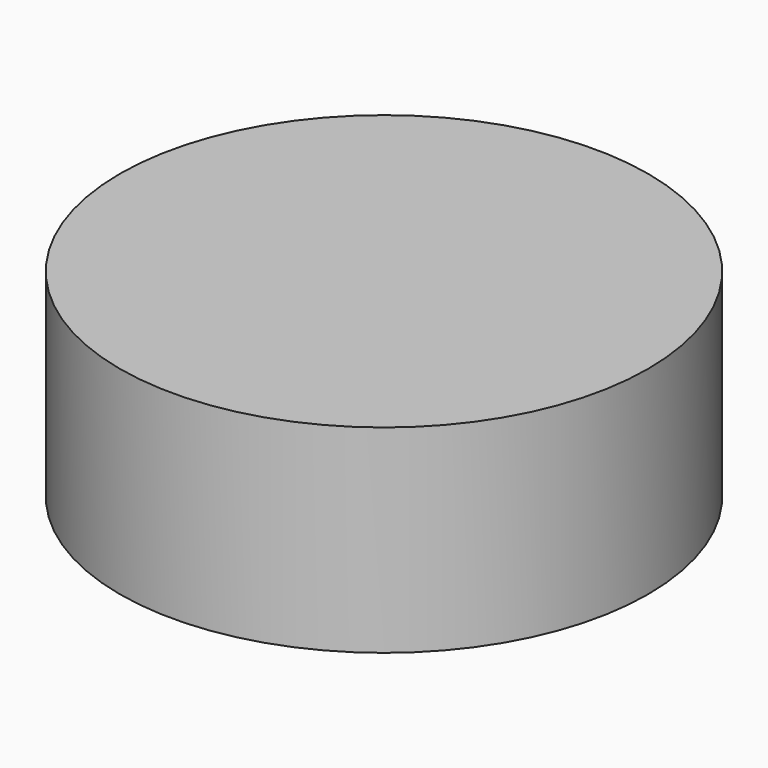
from build123d import *

# Parameters (mm, degrees)
CYLINDER_R     = 19.9644
CYLINDER_DEPTH = 15


with BuildPart() as part:
    # Cylinder → Cylinder (new body)
    with BuildSketch(Plane.XY.offset(-2.5)):
        Circle(CYLINDER_R)
    extrude(amount=CYLINDER_DEPTH)


solid = part.part
